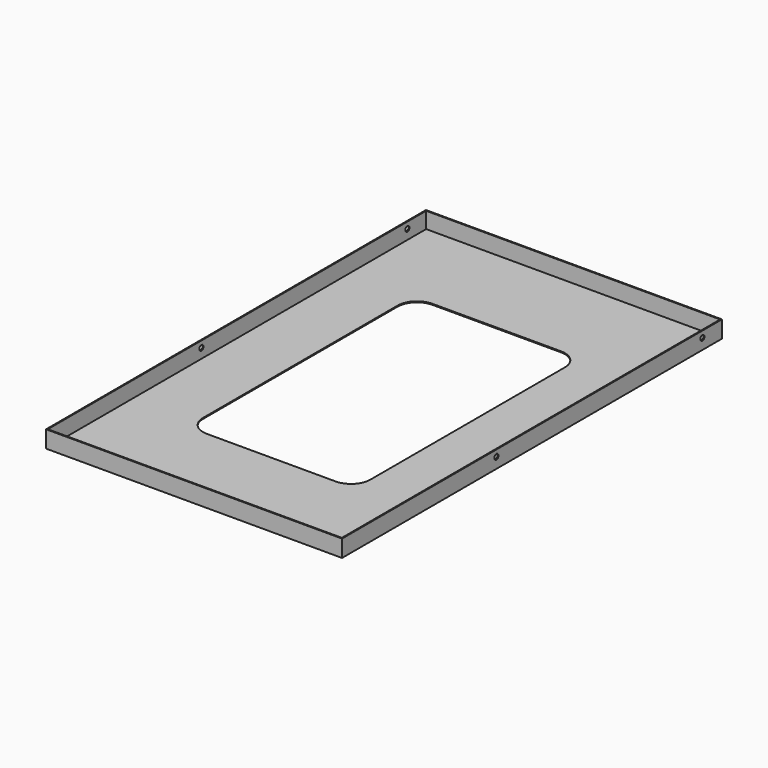
from build123d import *

# Parameters (mm, degrees)
F0_W     = 460
F0_H     = 738
F1_DEPTH = 1.5
F2_W     = 460
F2_H     = 738
F2_W_2   = 457
F2_H_2   = 735
F3_DEPTH = 25
F4_R     = 4
F5_DEPTH = 25
F6_R     = 4
F7_DEPTH = 25


with BuildPart() as f1:
    # F0 (on Top) → F1 (new body)
    with BuildSketch(Plane.XY):
        Rectangle(F0_W, F0_H)
        with BuildLine():
            Line((-100, 219), (100, 219))
            ThreePointArc((100, 219), (121.213203, 210.213203), (130, 189))
            Line((130, 189), (130, -189))
            ThreePointArc((130, -189), (121.213203, -210.213203), (100, -219))
            Line((100, -219), (-100, -219))
            ThreePointArc((-100, -219), (-121.213203, -210.213203), (-130, -189))
            Line((-130, -189), (-130, 189))
            ThreePointArc((-130, 189), (-121.213203, 210.213203), (-100, 219))
        make_face(mode=Mode.SUBTRACT)
    extrude(amount=F1_DEPTH)

    # F2 (on face) → F3 (join)
    with BuildSketch(Plane.XY.offset(1.5)):
        Rectangle(F2_W, F2_H)
        Rectangle(F2_W_2, F2_H_2, mode=Mode.SUBTRACT)
    extrude(amount=F3_DEPTH)

    # F4 (on face) → F5 (cut)
    with BuildSketch(Plane.YZ.offset(230)):
        with Locations((-69, 16.5)):
            Circle(F4_R)
        with Locations((331, 16.5)):
            Circle(F4_R)
    extrude(amount=-F5_DEPTH, mode=Mode.SUBTRACT)

    # F6 (on face) → F7 (cut)
    with BuildSketch(Plane(origin=(-230, 0, 0), x_dir=(0, -1, 0), z_dir=(-1, 0, 0))):
        with Locations((-331, 16.5)):
            Circle(F6_R)
        with Locations((69, 16.5)):
            Circle(F6_R)
    extrude(amount=-F7_DEPTH, mode=Mode.SUBTRACT)


solid = f1.part
